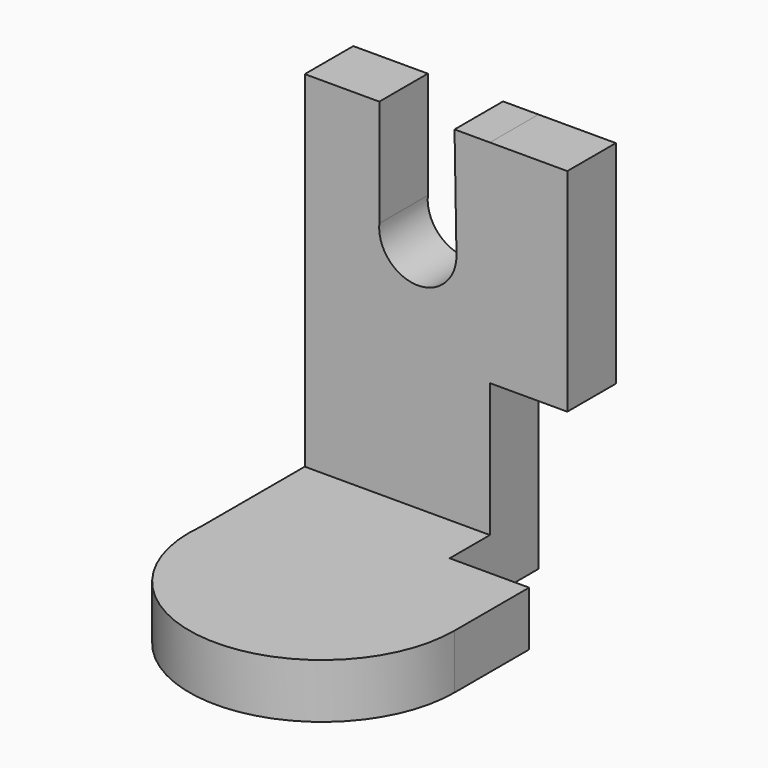
from build123d import *

# Parameters (mm, degrees)
F1_DEPTH = 25.4
F2_W     = 86.285248
F2_H     = 28.267801
F3_DEPTH = 161.036
F4_W     = 28.267801
F4_H     = 98.709983
F5_DEPTH = 36.068
F7_DEPTH = 66.548


with BuildPart() as f1:
    # F0 (on Top) → F1 (new body)
    with BuildSketch(Plane.XY):
        with BuildLine():
            Line((43.142624, -25.855438), (43.142624, 25.855438))
            Line((43.142624, 25.855438), (-43.142624, 25.855438))
            Line((-43.142624, 25.855438), (-43.142624, -25.855438))
            Line((-43.142624, -25.855438), (-43.142624, -62.98019))
            ThreePointArc((-43.142624, -62.98019), (15.213475, -130.97291), (80.158452, -69.242899))
            Line((80.158452, -69.242899), (80.158452, -25.855438))
            Line((80.158452, -25.855438), (43.142624, -25.855438))
        make_face()
    extrude(amount=F1_DEPTH)

    # F2 (on face) → F3 (join)
    with BuildSketch(Plane.XY.offset(25.4)):
        with Locations((0, 11.721538)):
            Rectangle(F2_W, F2_H)
    extrude(amount=F3_DEPTH)

    # F4 (on face) → F5 (join)
    with BuildSketch(Plane.YZ.offset(43.142624)):
        with Locations((11.721538, 137.081008)):
            Rectangle(F4_W, F4_H)
    extrude(amount=F5_DEPTH)

    # F6 (on face) → F7 (cut)
    with BuildSketch(Plane.XZ.offset(2.412363)):
        with BuildLine():
            ThreePointArc((-8.405176, 136.500489), (8.74214, 116.90457), (27.558346, 134.904039))
            ThreePointArc((27.558346, 134.904039), (27.557644, 135.063114), (27.555537, 135.222177))
            ThreePointArc((27.555537, 135.222177), (10.181212, 152.909862), (-8.405176, 136.500489))
        make_face()
        with BuildLine():
            ThreePointArc((-8.405176, 136.500489), (10.181212, 152.909862), (27.555537, 135.222177))
            Line((27.555537, 135.222177), (26.651092, 186.436))
            Line((26.651092, 186.436), (-8.405176, 186.436))
            Line((-8.405176, 186.436), (-8.405176, 136.500489))
        make_face()
    extrude(amount=-F7_DEPTH, mode=Mode.SUBTRACT)


solid = f1.part
